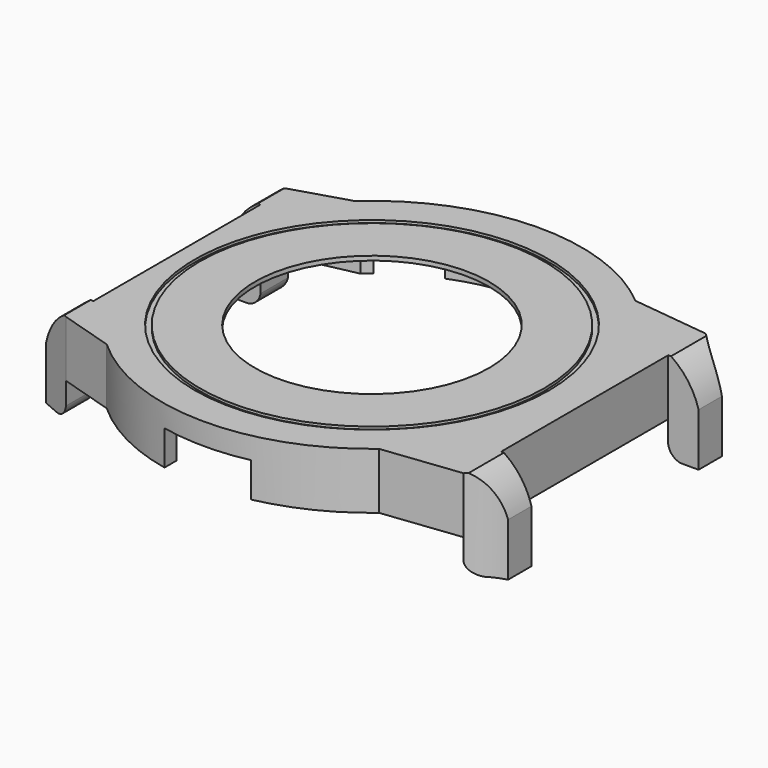
from build123d import *

# Parameters (mm, degrees)
PAD_DEPTH            = 6.5
POCKET_DEPTH         = 6
SKETCH002_R          = 13.5
POCKET001_DEPTH      = 1
SKETCH003_W          = 5.4
SKETCH003_H          = 6.5
PAD001_DEPTH         = 3.5
POCKET002_DEPTH      = 10
SKETCH010_W          = 3.95
SKETCH010_H          = 6.5
PAD002_DEPTH         = 3.5
POCKET005_DEPTH      = 10
SKETCH014_R          = 20.45
SKETCH014_R_2        = 19.85
POCKET008_DEPTH      = 0.3
SKETCH015_R          = 2.2
SKETCH015_R_2        = 0.975
PAD003_DEPTH         = 2
POCKET009_DEPTH      = 4
POCKET010_DEPTH      = 4
PAD004_DEPTH         = 4
POCKET013_DEPTH      = 12.151
POCKET013_DEPTH_BACK = 36.251


with BuildPart() as part:
    # Sketch → Pad (new body)
    with BuildSketch(Plane.XY):
        with BuildLine():
            Line((-22.5019915649, 16), (-22.5019915649, -16))
            Line((-22.5019915649, -16), (-16.2858834578, -17.9))
            ThreePointArc((-16.2858834578, -17.9), (-0.4552796053, -24.1957169863), (15.6009615088, -18.5))
            Line((15.6009615088, -18.5), (24.5395016581, -17.45))
            Line((24.5395016581, 17.45), (24.5395016581, -17.45))
            Line((15.6009615088, 18.5), (24.5395016581, 17.45))
            ThreePointArc((15.6009615088, 18.5), (-0.4552796053, 24.1957169863), (-16.2858834578, 17.9))
            Line((-22.5019915649, 16), (-16.2858834578, 17.9))
        make_face()
    extrude(amount=PAD_DEPTH)

    # Sketch001 → Pocket (cut)
    with BuildSketch(Plane.XY):
        with BuildLine():
            Line((-14.8539557021, 16.9), (-21.2122180433, 15.55))
            Line((-21.2122180433, 15.55), (-21.2122180433, -15.55))
            Line((-21.2122180433, -15.55), (-14.8539557021, -16.9))
            ThreePointArc((-14.8539557021, -16.9), (-0.0760301383, -22.4998715423), (14.739402973, -17))
            Line((14.739402973, -17), (23.6191552218, -16.4))
            Line((23.6191552218, 16.4), (23.6191552218, -16.4))
            Line((14.739402973, 17), (23.6191552218, 16.4))
            ThreePointArc((14.739402973, 17), (-0.0760301383, 22.4998715423), (-14.8539557021, 16.9))
        make_face()
    extrude(amount=POCKET_DEPTH, mode=Mode.SUBTRACT)

    # Sketch002 (on Face19 of Pocket) → Pocket001 (cut)
    with BuildSketch(Plane(origin=(0, 0, 6), x_dir=(1, 0, 0), z_dir=(0, 0, -1))):
        Circle(SKETCH002_R)
    extrude(amount=-POCKET001_DEPTH, mode=Mode.SUBTRACT)

    # Sketch003 (on Face7 of Pad) → Pad001 (join)
    with BuildSketch(Plane.YZ.offset(24.5395016581)):
        with Locations((-14.75, 3.25)):
            Rectangle(SKETCH003_W, SKETCH003_H)
        with Locations((14.75, 3.25)):
            Rectangle(SKETCH003_W, SKETCH003_H)
    extrude(amount=PAD001_DEPTH)

    # Sketch006 (on Face22 of Pad001) → Pocket002 (cut)
    with BuildSketch(Plane.XY.offset(6.5)):
        with BuildLine():
            ThreePointArc((24.5395016581, 17.45), (26.1592830786, 16.2095505764), (28.0395016581, 15.4176006311))
            Line((28.0395016581, 17.45), (28.0395016581, 15.4176006311))
            Line((28.0395016581, 17.45), (24.5395016581, 17.45))
        make_face()
        with BuildLine():
            ThreePointArc((28.0395016581, -15.4176006311), (26.1592830786, -16.2095505765), (24.5395016581, -17.4500000001))
            Line((28.0395016581, -17.45), (24.5395016581, -17.45))
            Line((28.0395016581, -15.4176006311), (28.0395016581, -17.45))
        make_face()
    extrude(amount=-POCKET002_DEPTH, mode=Mode.SUBTRACT)

    # Sketch010 (on Face3 of Pad) → Pad002 (join)
    with BuildSketch(Plane(origin=(-22.5019915649, 0, 0), x_dir=(0, -1, 0), z_dir=(-1, 0, 0))):
        with Locations((-14.025, 3.25)):
            Rectangle(SKETCH010_W, SKETCH010_H)
        with Locations((14.025, 3.25)):
            Rectangle(SKETCH010_W, SKETCH010_H)
    extrude(amount=PAD002_DEPTH)

    # Sketch011 (on Face28 of Pad002) → Pocket005 (cut)
    with BuildSketch(Plane.XY.offset(6.5)):
        Polygon((-26.0019915649, 16), (-22.5019915649, 16), (-26.0019915649, 14.5), align=None)
        Polygon((-22.5019915649, -16), (-26.0019915649, -14.5), (-26.0019915649, -16), align=None)
    extrude(amount=-POCKET005_DEPTH, mode=Mode.SUBTRACT)

    # Sketch014 (on Face10 of Pad) → Pocket008 (cut)
    with BuildSketch(Plane.XY.offset(6.5)):
        Circle(SKETCH014_R)
        Circle(SKETCH014_R_2, mode=Mode.SUBTRACT)
    extrude(amount=-POCKET008_DEPTH, mode=Mode.SUBTRACT)

    # Sketch015 (on Face19 of Pocket) → Pad003 (join)
    with BuildSketch(Plane(origin=(0, 0, 6), x_dir=(1, 0, 0), z_dir=(0, 0, -1))):
        with Locations((-18.42, 13.32)):
            Circle(SKETCH015_R)
        with Locations((-18.42, 13.32)):
            Circle(SKETCH015_R_2, mode=Mode.SUBTRACT)
        with Locations((7.27, 18.56)):
            Circle(SKETCH015_R)
        with Locations((7.27, 18.56)):
            Circle(SKETCH015_R_2, mode=Mode.SUBTRACT)
        with Locations((5.37, -19.79)):
            Circle(SKETCH015_R)
        with Locations((5.37, -19.79)):
            Circle(SKETCH015_R_2, mode=Mode.SUBTRACT)
        with Locations((-18.42, -13.32)):
            Circle(SKETCH015_R)
        with Locations((-18.42, -13.32)):
            Circle(SKETCH015_R_2, mode=Mode.SUBTRACT)
    extrude(amount=PAD003_DEPTH)

    # Sketch016 (on Face4 of Pocket) → Pocket009 (cut)
    with BuildSketch(Plane(origin=(0, 0, 0), x_dir=(1, 0, 0), z_dir=(0, 0, -1))):
        with BuildLine():
            Line((-4.9992330338, 23.6779996848), (-5.0007669662, 21.9372361465))
            ThreePointArc((5.0007669662, 21.9372361465), (0, 22.5), (-5.0007669662, 21.9372361465))
            Line((5.0007669662, 23.6776757675), (5.0007669662, 21.9372361465))
            ThreePointArc((5.0007669662, 23.6776757675), (0.00078388, 24.1999999873), (-4.9992330338, 23.6779996848))
        make_face()
    extrude(amount=-POCKET009_DEPTH, mode=Mode.SUBTRACT)

    # Sketch017 (on Face4 of Pocket) → Pocket010 (cut)
    with BuildSketch(Plane(origin=(0, 0, 0), x_dir=(1, 0, 0), z_dir=(0, 0, -1))):
        with BuildLine():
            ThreePointArc((-3.2541322314, -22.2634369184), (0, -22.5), (3.2541322314, -22.2634369184))
            Line((3.2541322314, -22.2634369184), (3.5, -23.9455632634))
            ThreePointArc((-3.5, -23.9455632634), (0, -24.2), (3.5, -23.9455632634))
            Line((-3.2541322314, -22.2634369184), (-3.5, -23.9455632634))
        make_face()
        with BuildLine():
            ThreePointArc((-13.9498796389, -17.6536358312), (-11.25, -19.4855715851), (-8.3135572795, -20.9077680626))
            Line((-8.3135572795, -20.9077680626), (-8.9416927184, -22.487466094))
            ThreePointArc((-15.0038705449, -18.987466094), (-12.1, -20.9578147716), (-8.9416927184, -22.487466094))
            Line((-13.9498796389, -17.6536358312), (-15.0038705449, -18.987466094))
        make_face()
        with BuildLine():
            ThreePointArc((8.3135572795, -20.9077680626), (11.25, -19.4855715851), (13.9498796389, -17.6536358312))
            Line((13.9498796389, -17.6536358312), (15.0038705449, -18.987466094))
            ThreePointArc((8.9416927184, -22.487466094), (12.1, -20.9578147716), (15.0038705449, -18.987466094))
            Line((8.3135572795, -20.9077680626), (8.9416927184, -22.487466094))
        make_face()
    extrude(amount=-POCKET010_DEPTH, mode=Mode.SUBTRACT)

    # Sketch018 (on Face8 of Pocket005) → Pad004 (join)
    with BuildSketch(Plane(origin=(0, 0, 0), x_dir=(1, 0, 0), z_dir=(0, 0, -1))):
        Polygon((-26.0019915649, 14.5), (-26.0019915649, 12.05), (-22.5019915649, 12.05), (-22.5019915649, 16), align=None)
        Polygon((-26.0019915649, -12.05), (-22.5019915649, -12.05), (-22.5019915649, -16), (-26.0019915649, -14.5), align=None)
        with BuildLine():
            Line((24.5395016581, 17.4500000001), (24.5395016581, 12.05))
            Line((28.0395016581, 12.05), (24.5395016581, 12.05))
            Line((28.0395016581, 15.4176006311), (28.0395016581, 12.05))
            ThreePointArc((24.5395016581, 17.4500000001), (26.1592830786, 16.2095505765), (28.0395016581, 15.4176006311))
        make_face()
        with BuildLine():
            Line((24.5395016581, -12.05), (24.5395016581, -17.45))
            ThreePointArc((28.0395016581, -15.4176006311), (26.1592830786, -16.2095505764), (24.5395016581, -17.45))
            Line((28.0395016581, -12.05), (28.0395016581, -15.4176006311))
            Line((24.5395016581, -12.05), (28.0395016581, -12.05))
        make_face()
    extrude(amount=PAD004_DEPTH)

    # Sketch021 (on Face50 of Pad004) → Pocket013 (cut, two sides)
    with BuildSketch(Plane(origin=(0, -12.05, 0), x_dir=(-1, 0, 0), z_dir=(0, 1, 0))) as pocket013_sk:
        with BuildLine():
            Line((-24.8620157143, 6.5), (-28.0395016581, 6.5))
            Line((-28.0395016581, 6.5), (-28.0395016581, 2.1))
            ThreePointArc((-24.8620157143, 6.5), (-26.8441838951, 4.5841143344), (-28.0395016581, 2.1))
        make_face()
        with BuildLine():
            ThreePointArc((-25.9995016581, -4), (-25.0260575173, -3.5134441408), (-24.5395016581, -2.54))
            Line((-24.5395016581, -4), (-24.5395016581, -2.54))
            Line((-24.5395016581, -4), (-25.9995016581, -4))
        make_face()
        with BuildLine():
            Line((22.5019915649, -4), (22.5019915649, -2.54))
            ThreePointArc((22.5019915649, -2.54), (22.9885474241, -3.5134441408), (23.9619915649, -4))
            Line((22.5019915649, -4), (23.9619915649, -4))
        make_face()
        with BuildLine():
            Line((26.0019915649, 6.5), (26.0019915649, 2.1))
            ThreePointArc((26.0019915649, 2.1), (24.806673802, 4.5841143344), (22.8245056212, 6.5))
            Line((26.0019915649, 6.5), (22.8245056212, 6.5))
        make_face()
    extrude(amount=-POCKET013_DEPTH, mode=Mode.SUBTRACT)
    extrude(pocket013_sk.sketch, amount=POCKET013_DEPTH_BACK, mode=Mode.SUBTRACT)


solid = part.part
